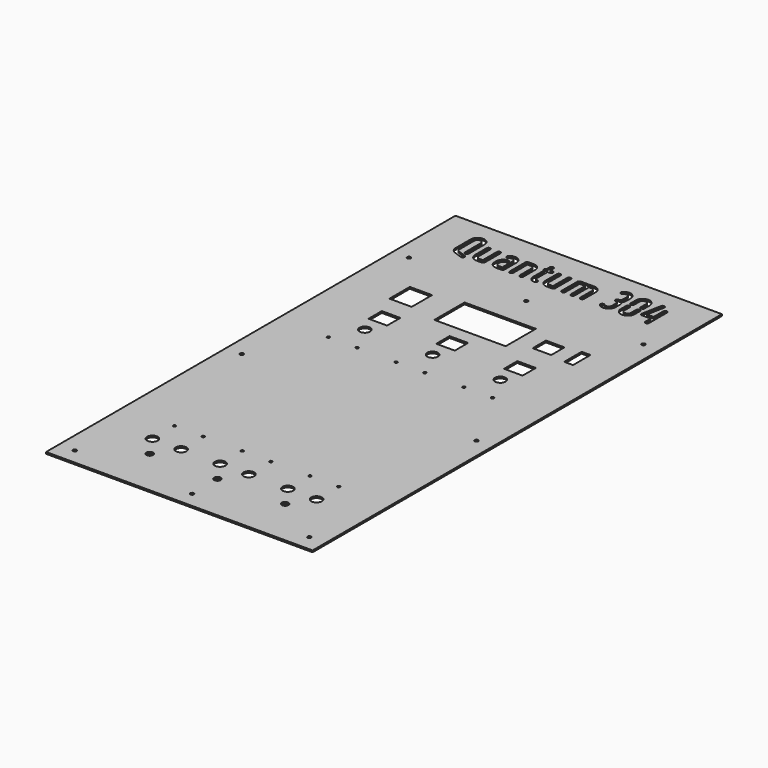
from build123d import *

# Parameters (mm, degrees)
F0_W     = 317.500001
F0_H     = 609.6
F0_R     = 2.1
F0_R_2   = 3.96875
F0_R_3   = 6.35
F0_R_4   = 1.625
F0_W_2   = 22.1
F0_H_2   = 19.8
F0_W_3   = 26.5
F0_H_3   = 30.35
F0_W_4   = 85
F0_H_4   = 45
F0_W_5   = 10.5
F0_H_5   = 26
F1_DEPTH = 2.032


with BuildPart() as f1:
    # F0 (on Top) → F1 (new body)
    with BuildSketch(Plane.XY):
        with Locations((116.335995, 80.489702)):
            Rectangle(F0_W, F0_H)
        with Locations((-23.364005, -205.260298)):
            Circle(F0_R, mode=Mode.SUBTRACT)
        with Locations((35.205998, -167.041455)):
            Circle(F0_R_2, mode=Mode.SUBTRACT)
        with Locations((18.105998, -141.641455)):
            Circle(F0_R_3, mode=Mode.SUBTRACT)
        with Locations((18.105998, -108.741455)):
            Circle(F0_R_4, mode=Mode.SUBTRACT)
        with Locations((116.335996, -205.260298)):
            Circle(F0_R, mode=Mode.SUBTRACT)
        with Locations((115.905998, -167.041455)):
            Circle(F0_R_2, mode=Mode.SUBTRACT)
        with Locations((52.305998, -141.641455)):
            Circle(F0_R_3, mode=Mode.SUBTRACT)
        with Locations((52.305998, -108.741455)):
            Circle(F0_R_4, mode=Mode.SUBTRACT)
        with Locations((98.805998, -141.641455)):
            Circle(F0_R_3, mode=Mode.SUBTRACT)
        with Locations((98.805998, -108.741455)):
            Circle(F0_R_4, mode=Mode.SUBTRACT)
        with Locations((-23.364005, 43.456502)):
            Circle(F0_R, mode=Mode.SUBTRACT)
        with Locations((133.005998, -141.641455)):
            Circle(F0_R_3, mode=Mode.SUBTRACT)
        with Locations((133.005998, -108.741455)):
            Circle(F0_R_4, mode=Mode.SUBTRACT)
        with Locations((179.505998, -141.641455)):
            Circle(F0_R_3, mode=Mode.SUBTRACT)
        with Locations((179.505998, -108.741455)):
            Circle(F0_R_4, mode=Mode.SUBTRACT)
        with Locations((196.605998, -167.041455)):
            Circle(F0_R_2, mode=Mode.SUBTRACT)
        with Locations((256.035996, -205.260298)):
            Circle(F0_R, mode=Mode.SUBTRACT)
        with Locations((213.705998, -141.641455)):
            Circle(F0_R_3, mode=Mode.SUBTRACT)
        with Locations((213.705998, -108.741455)):
            Circle(F0_R_4, mode=Mode.SUBTRACT)
        with Locations((256.035996, 43.456502)):
            Circle(F0_R, mode=Mode.SUBTRACT)
        with Locations((18.105998, 120.458545)):
            Circle(F0_R_4, mode=Mode.SUBTRACT)
        with Locations((35.205998, 153.358545)):
            Circle(F0_R_3, mode=Mode.SUBTRACT)
        with Locations((35.205998, 182.564359)):
            Rectangle(F0_W_2, F0_H_2, mode=Mode.SUBTRACT)
        with Locations((27.332, 231.577933)):
            Rectangle(F0_W_3, F0_H_3, mode=Mode.SUBTRACT)
        with Locations((52.305998, 120.458545)):
            Circle(F0_R_4, mode=Mode.SUBTRACT)
        with Locations((98.805998, 120.458545)):
            Circle(F0_R_4, mode=Mode.SUBTRACT)
        with Locations((115.905998, 153.358545)):
            Circle(F0_R_3, mode=Mode.SUBTRACT)
        with Locations((115.905998, 182.564359)):
            Rectangle(F0_W_2, F0_H_2, mode=Mode.SUBTRACT)
        with Locations((115.905998, 231.577933)):
            Rectangle(F0_W_4, F0_H_4, mode=Mode.SUBTRACT)
        with Locations((-23.364005, 292.177933)):
            Circle(F0_R, mode=Mode.SUBTRACT)
        Polygon((-1.569246, 356.794588), (-1.540823, 357.618466), (-1.427191, 358.442345), (-1.22832, 359.209407), (-0.972632, 359.976498), (-0.603312, 360.686744), (-0.20557, 361.368568), (0.305805, 362.021997), (0.873996, 362.647034), (1.499032, 363.215225), (2.152462, 363.7266), (2.834286, 364.124342), (3.544532, 364.493662), (4.311594, 364.749349), (5.078685, 364.948221), (5.902564, 365.061853), (6.754865, 365.090276), (7.578743, 365.061853), (8.402622, 364.948221), (9.169713, 364.749349), (9.936775, 364.493662), (10.647021, 364.124342), (11.328845, 363.7266), (11.982275, 363.215225), (12.607311, 362.647034), (13.175502, 362.021997), (13.686877, 361.368568), (14.084619, 360.686744), (14.453939, 359.976498), (14.709626, 359.209407), (14.908498, 358.442345), (15.022159, 357.618466), (15.050553, 356.794588), (15.050553, 334.634847), (15.050553, 334.379159), (15.050553, 334.123472), (15.022159, 333.867785), (14.993736, 333.612097), (14.965314, 333.384803), (14.93692, 333.129116), (14.908498, 332.901851), (14.851681, 332.646164), (14.823288, 332.504109), (14.766443, 332.333631), (14.709626, 332.191605), (14.65281, 332.04955), (14.5676, 331.935888), (14.482362, 331.793863), (14.368729, 331.680201), (14.255068, 331.538175), (14.084619, 331.39612), (13.885748, 331.254065), (13.715299, 331.140433), (13.516428, 331.055194), (13.317557, 330.969955), (13.118686, 330.913139), (12.891392, 330.884745), (12.664127, 330.884745), (12.436833, 330.884745), (12.237962, 330.913139), (12.010697, 330.969955), (11.811826, 331.055194), (11.641377, 331.140433), (11.442506, 331.254065), (11.272028, 331.367697), (11.10158, 331.538175), (10.959525, 331.708624), (10.81747, 331.879072), (10.703837, 332.04955), (10.618599, 332.248421), (10.533389, 332.447292), (10.504966, 332.646164), (10.476573, 332.873428), (10.44815, 333.100722), (10.44815, 333.157538), (10.44815, 333.214355), (10.44815, 333.271171), (10.44815, 333.327987), (10.476573, 333.384803), (10.476573, 333.470042), (10.476573, 333.526858), (10.476573, 333.583674), (10.504966, 333.725729), (10.533389, 333.839362), (10.561782, 333.981417), (10.590205, 334.095049), (10.590205, 334.237104), (10.618599, 334.350737), (10.618599, 334.492792), (10.618599, 334.634847), (10.618599, 356.794588), (10.590205, 357.163907), (10.561782, 357.56165), (10.44815, 357.93097), (10.334518, 358.271896), (10.16404, 358.612822), (9.993591, 358.925326), (9.737904, 359.237829), (9.482217, 359.52194), (9.198107, 359.777627), (8.885603, 360.033314), (8.573099, 360.203763), (8.232173, 360.374241), (7.891247, 360.487873), (7.521927, 360.601505), (7.124185, 360.629928), (6.754865, 360.658322), (6.357122, 360.629928), (5.95938, 360.601505), (5.59006, 360.487873), (5.249134, 360.374241), (4.908208, 360.203763), (4.595704, 360.033314), (4.2832, 359.777627), (3.99909, 359.52194), (3.743403, 359.237829), (3.487715, 358.925326), (3.317267, 358.612822), (3.146789, 358.271896), (3.033157, 357.93097), (2.919524, 357.56165), (2.891102, 357.163907), (2.862708, 356.794588), (2.862708, 334.634847), (2.891102, 334.237104), (2.919524, 333.867785), (3.004763, 333.526858), (3.118396, 333.185932), (3.288844, 332.873428), (3.459322, 332.589318), (3.686587, 332.305237), (3.942274, 332.04955), (4.197962, 331.822256), (4.482072, 331.594991), (4.766153, 331.39612), (5.078685, 331.225642), (5.362766, 331.083616), (5.703692, 330.941561), (6.016196, 330.827929), (6.357122, 330.714268), (14.851681, 327.759651), (15.078975, 327.674412), (15.277847, 327.56078), (15.448295, 327.447147), (15.618744, 327.305092), (15.789221, 327.163037), (15.931276, 326.992589), (16.044909, 326.822111), (16.158541, 326.62324), (16.215357, 326.481185), (16.24378, 326.367552), (16.300596, 326.25392), (16.32899, 326.111865), (16.357412, 325.998233), (16.357412, 325.8846), (16.385835, 325.770939), (16.385835, 325.657306), (16.385835, 325.572068), (16.385835, 325.486858), (16.357412, 325.401619), (16.357412, 325.31638), (16.32899, 325.23117), (16.32899, 325.145932), (16.300596, 325.032299), (16.272174, 324.94706), (16.186964, 324.748189), (16.073302, 324.549318), (15.95967, 324.350447), (15.846038, 324.179998), (15.67556, 324.037943), (15.505111, 323.895888), (15.334663, 323.753833), (15.135791, 323.640201), (15.022159, 323.611807), (14.880104, 323.554962), (14.766443, 323.526568), (14.65281, 323.498146), (14.510755, 323.469752), (14.397123, 323.441329), (14.28349, 323.441329), (14.169858, 323.441329), (14.084619, 323.441329), (13.970987, 323.441329), (13.885748, 323.441329), (13.800509, 323.469752), (13.715299, 323.469752), (13.630061, 323.498146), (13.544822, 323.526568), (13.431189, 323.554962), (4.538888, 326.594846), (3.970697, 326.793718), (3.459322, 327.020982), (2.947918, 327.27667), (2.493359, 327.532357), (2.038801, 327.816467), (1.612665, 328.100577), (1.243345, 328.413081), (0.873996, 328.753978), (0.305805, 329.379014), (-0.20557, 330.032444), (-0.603312, 330.714268), (-0.972632, 331.424514), (-1.22832, 332.191605), (-1.427191, 332.958667), (-1.540823, 333.782546), (-1.569246, 334.634847), align=None, mode=Mode.SUBTRACT)
        Polygon((21.300741, 333.526858), (21.187109, 334.322343), (21.130264, 335.174644), (21.130264, 352.362634), (21.158686, 352.561505), (21.187109, 352.78877), (21.243925, 352.987641), (21.300741, 353.186512), (21.38598, 353.385383), (21.499612, 353.584255), (21.641667, 353.754703), (21.783693, 353.925181), (21.954171, 354.067236), (22.12462, 354.209262), (22.323491, 354.322923), (22.522362, 354.408133), (22.721233, 354.464978), (22.920105, 354.521794), (23.147369, 354.550188), (23.346241, 354.578611), (23.573534, 354.550188), (23.800799, 354.521794), (23.99967, 354.464978), (24.198542, 354.408133), (24.397413, 354.322923), (24.596284, 354.209262), (24.766733, 354.067236), (24.93721, 353.925181), (25.079265, 353.754703), (25.221291, 353.584255), (25.334953, 353.385383), (25.420162, 353.186512), (25.477008, 352.987641), (25.533824, 352.78877), (25.562218, 352.561505), (25.562218, 352.362634), (25.562218, 335.174644), (25.59064, 334.776902), (25.647456, 334.407553), (25.732695, 334.038233), (25.846328, 333.697307), (26.016776, 333.35641), (26.215647, 333.043877), (26.442941, 332.731373), (26.698629, 332.41887), (27.011132, 332.163182), (27.323636, 331.935888), (27.636139, 331.737046), (27.977066, 331.566569), (28.317992, 331.452936), (28.687312, 331.367697), (29.056632, 331.310881), (29.454374, 331.282488), (33.346531, 331.282488), (33.346531, 352.362634), (33.346531, 352.561505), (33.374953, 352.78877), (33.431769, 352.987641), (33.488586, 353.186512), (33.573824, 353.385383), (33.687457, 353.584255), (33.829512, 353.754703), (33.971567, 353.925181), (34.142015, 354.067236), (34.312464, 354.209262), (34.511335, 354.322923), (34.710206, 354.408133), (34.909078, 354.464978), (35.107949, 354.521794), (35.335243, 354.550188), (35.562508, 354.578611), (35.761379, 354.550188), (35.988673, 354.521794), (36.187544, 354.464978), (36.386415, 354.408133), (36.585257, 354.322923), (36.784128, 354.209262), (36.954606, 354.067236), (37.125055, 353.925181), (37.26711, 353.754703), (37.409165, 353.584255), (37.522797, 353.385383), (37.608036, 353.186512), (37.664852, 352.987641), (37.721668, 352.78877), (37.750091, 352.561505), (37.778485, 352.362634), (37.778485, 329.066511), (37.750091, 328.867639), (37.721668, 328.640346), (37.664852, 328.441474), (37.608036, 328.242603), (37.522797, 328.043732), (37.409165, 327.844861), (37.26711, 327.674412), (37.125055, 327.503964), (36.954606, 327.361909), (36.784128, 327.219854), (36.585257, 327.106221), (36.386415, 327.020982), (36.187544, 326.964166), (35.988673, 326.90735), (35.761379, 326.878927), (35.562508, 326.850534), (29.454374, 326.850534), (28.602073, 326.90735), (27.806617, 327.020982), (27.011132, 327.219854), (26.272464, 327.475541), (25.562218, 327.816467), (24.851971, 328.242603), (24.198542, 328.725584), (23.573534, 329.293775), (23.005343, 329.918812), (22.522362, 330.572213), (22.096226, 331.282488), (21.7553, 331.992734), (21.499612, 332.731373), align=None, mode=Mode.SUBTRACT)
        with Locations((116.335996, 292.177933)):
            Circle(F0_R, mode=Mode.SUBTRACT)
        Polygon((44.426416, 337.419015), (44.454809, 338.271316), (44.568471, 339.066801), (44.767313, 339.862257), (45.023029, 340.600925), (45.392349, 341.311171), (45.790091, 342.021417), (46.301466, 342.674847), (46.869657, 343.299854), (47.409455, 343.811258), (48.006068, 344.237394), (48.602653, 344.635137), (49.227689, 344.976063), (49.881119, 345.23175), (50.562943, 345.459015), (51.273189, 345.60107), (51.983435, 345.714703), (52.267545, 345.686309), (52.523232, 345.657886), (52.750526, 345.60107), (52.977791, 345.544254), (53.205085, 345.430622), (53.403927, 345.31696), (53.574405, 345.203328), (53.744853, 345.032879), (53.886908, 344.862402), (54.028963, 344.691953), (54.142596, 344.493082), (54.227834, 344.322633), (54.313044, 344.123762), (54.369889, 343.924891), (54.398283, 343.697597), (54.398283, 343.498726), (54.398283, 343.271461), (54.369889, 343.044167), (54.313044, 342.845296), (54.227834, 342.646454), (54.142596, 342.447582), (54.028963, 342.277105), (53.915331, 342.106656), (53.773276, 341.936179), (53.602798, 341.794153), (53.460772, 341.680491), (53.290294, 341.566859), (53.119846, 341.48162), (52.949368, 341.39641), (52.77892, 341.339594), (52.608471, 341.311171), (52.4096, 341.282778), (52.068674, 341.225932), (51.727747, 341.169116), (51.415244, 341.083907), (51.10274, 340.941852), (50.81863, 340.799796), (50.534549, 340.600925), (50.250439, 340.402054), (49.994752, 340.146367), (49.739064, 339.862257), (49.483377, 339.549753), (49.312899, 339.237249), (49.142451, 338.896323), (49.028818, 338.555426), (48.915186, 338.186077), (48.886763, 337.816757), (48.85834, 337.419015), (48.85834, 335.174644), (48.886763, 334.776902), (48.915186, 334.407553), (49.028818, 334.038233), (49.142451, 333.697307), (49.312899, 333.35641), (49.483377, 333.043877), (49.739064, 332.731373), (49.994752, 332.41887), (50.278862, 332.163182), (50.591365, 331.935888), (50.903869, 331.737046), (51.244795, 331.566569), (51.585692, 331.452936), (51.955041, 331.367697), (52.352784, 331.310881), (52.750526, 331.282488), (56.61426, 331.282488), (56.61426, 346.794298), (56.585837, 347.163617), (56.529021, 347.56136), (56.443811, 347.93068), (56.301756, 348.271606), (56.159701, 348.612532), (55.96083, 348.925036), (55.733565, 349.237539), (55.477878, 349.521649), (55.165345, 349.777337), (54.881264, 350.033024), (54.540338, 350.203473), (54.227834, 350.373951), (53.858486, 350.487583), (53.489166, 350.601215), (53.119846, 350.629638), (52.722103, 350.658032), (52.324361, 350.629638), (51.926619, 350.572793), (51.557299, 350.487583), (51.216373, 350.373951), (50.875446, 350.203473), (50.534549, 350.004602), (50.222016, 349.777337), (49.909513, 349.493227), (49.767458, 349.351172), (49.597009, 349.209117), (49.398138, 349.095484), (49.227689, 349.010275), (49.028818, 348.925036), (48.801524, 348.86822), (48.602653, 348.839797), (48.346966, 348.839797), (48.148094, 348.839797), (47.92083, 348.86822), (47.721958, 348.925036), (47.523087, 348.981852), (47.324216, 349.095484), (47.125345, 349.209117), (46.954896, 349.322778), (46.784419, 349.493227), (46.642393, 349.635282), (46.500338, 349.834153), (46.386705, 350.004602), (46.301466, 350.203473), (46.24465, 350.402344), (46.187834, 350.601215), (46.159411, 350.828509), (46.130989, 351.055774), (46.159411, 351.254645), (46.187834, 351.48191), (46.24465, 351.680781), (46.301466, 351.879652), (46.386705, 352.078524), (46.500338, 352.249001), (46.642393, 352.41945), (46.784419, 352.589898), (47.409455, 353.186512), (48.091278, 353.697887), (48.773131, 354.124052), (49.51177, 354.493372), (50.278862, 354.777482), (51.045924, 354.94793), (51.869802, 355.089986), (52.722103, 355.118379), (53.545982, 355.089986), (54.369889, 354.976353), (55.136952, 354.777482), (55.904014, 354.521794), (56.61426, 354.152446), (57.296112, 353.754703), (57.949513, 353.243328), (58.57455, 352.675137), (59.142741, 352.05013), (59.654115, 351.3967), (60.080281, 350.714848), (60.421178, 349.976208), (60.676865, 349.237539), (60.875736, 348.442055), (60.989398, 347.618176), (61.046214, 346.794298), (61.046214, 329.066511), (61.046214, 328.867639), (61.017791, 328.640346), (60.960975, 328.441474), (60.875736, 328.242603), (60.790527, 328.043732), (60.676865, 327.844861), (60.534839, 327.674412), (60.392784, 327.503964), (60.222306, 327.361909), (60.051858, 327.219854), (59.881409, 327.106221), (59.682538, 327.020982), (59.483667, 326.964166), (59.284796, 326.90735), (59.057502, 326.878927), (58.830237, 326.850534), (52.750526, 326.850534), (51.898225, 326.90735), (51.074317, 327.020982), (50.307255, 327.219854), (49.540193, 327.475541), (48.829947, 327.816467), (48.148094, 328.242603), (47.494665, 328.725584), (46.869657, 329.293775), (46.301466, 329.918812), (45.790091, 330.572213), (45.392349, 331.282488), (45.023029, 331.992734), (44.767313, 332.731373), (44.568471, 333.526858), (44.454809, 334.322343), (44.426416, 335.174644), align=None, mode=Mode.SUBTRACT)
        Polygon((67.239557, 328.441474), (67.182741, 328.640346), (67.154348, 328.867639), (67.154348, 329.066511), (67.154348, 352.362634), (67.154348, 352.561505), (67.182741, 352.78877), (67.239557, 352.987641), (67.324796, 353.186512), (67.410035, 353.385383), (67.523667, 353.584255), (67.665722, 353.754703), (67.807777, 353.925181), (67.978226, 354.067236), (68.148675, 354.209262), (68.319152, 354.322923), (68.518023, 354.408133), (68.716895, 354.464978), (68.915766, 354.521794), (69.143031, 354.550188), (69.370325, 354.578611), (75.450035, 354.578611), (76.302336, 354.521794), (77.126215, 354.408133), (77.893277, 354.209262), (78.660369, 353.953574), (79.370615, 353.612677), (80.052438, 353.186512), (80.705868, 352.70356), (81.330875, 352.13534), (81.899095, 351.510333), (82.41047, 350.856903), (82.808212, 350.146657), (83.177532, 349.436411), (83.43322, 348.697742), (83.632091, 347.902286), (83.745723, 347.106801), (83.774146, 346.2545), (83.774146, 329.066511), (83.774146, 328.867639), (83.745723, 328.640346), (83.688907, 328.441474), (83.603668, 328.242603), (83.518458, 328.043732), (83.404797, 327.844861), (83.262771, 327.674412), (83.120716, 327.503964), (82.950238, 327.361909), (82.77979, 327.219854), (82.609341, 327.106221), (82.41047, 327.020982), (82.211599, 326.964166), (82.012728, 326.90735), (81.785434, 326.878927), (81.558169, 326.850534), (81.330875, 326.878927), (81.10361, 326.90735), (80.904739, 326.964166), (80.705868, 327.020982), (80.506997, 327.106221), (80.336548, 327.219854), (80.16607, 327.361909), (79.995622, 327.503964), (79.853567, 327.674412), (79.711512, 327.844861), (79.597879, 328.043732), (79.51264, 328.242603), (79.427431, 328.441474), (79.370615, 328.640346), (79.342192, 328.867639), (79.342192, 329.066511), (79.342192, 346.2545), (79.313769, 346.652243), (79.285376, 347.021562), (79.171743, 347.390882), (79.058082, 347.731808), (78.887633, 348.072735), (78.717185, 348.385238), (78.461497, 348.697742), (78.20581, 349.010275), (77.9217, 349.265962), (77.609196, 349.493227), (77.296693, 349.692098), (76.955766, 349.862547), (76.61484, 349.976208), (76.24552, 350.061418), (75.847778, 350.118234), (75.450035, 350.146657), (71.586272, 350.146657), (71.586272, 329.066511), (71.586272, 328.867639), (71.557879, 328.640346), (71.501063, 328.441474), (71.415824, 328.242603), (71.330585, 328.043732), (71.216953, 327.844861), (71.074898, 327.674412), (70.932872, 327.503964), (70.762394, 327.361909), (70.591945, 327.219854), (70.421468, 327.106221), (70.222596, 327.020982), (70.023754, 326.964166), (69.824883, 326.90735), (69.597589, 326.878927), (69.370325, 326.850534), (69.143031, 326.878927), (68.915766, 326.90735), (68.716895, 326.964166), (68.518023, 327.020982), (68.319152, 327.106221), (68.148675, 327.219854), (67.978226, 327.361909), (67.807777, 327.503964), (67.665722, 327.674412), (67.523667, 327.844861), (67.410035, 328.043732), (67.324796, 328.242603), align=None, mode=Mode.SUBTRACT)
        Polygon((89.399298, 351.709204), (89.342482, 351.908075), (89.314059, 352.13534), (89.314059, 352.362634), (89.314059, 352.561505), (89.342482, 352.78877), (89.399298, 352.987641), (89.456114, 353.186512), (89.569776, 353.385383), (89.683408, 353.584255), (89.797041, 353.754703), (89.967489, 353.925181), (90.081151, 354.038813), (90.194783, 354.124052), (90.308415, 354.209262), (90.45047, 354.294501), (90.564103, 354.351317), (90.706158, 354.408133), (90.848213, 354.464978), (90.990268, 354.521794), (90.990268, 358.982142), (90.990268, 359.181013), (91.018661, 359.408278), (91.075478, 359.607149), (91.160717, 359.80602), (91.245955, 360.004892), (91.359588, 360.203763), (91.501643, 360.374241), (91.643698, 360.544689), (91.814146, 360.686744), (92.013018, 360.828799), (92.183466, 360.942432), (92.382337, 361.027641), (92.581209, 361.084487), (92.78008, 361.141303), (92.978951, 361.169696), (93.206245, 361.198119), (93.43351, 361.169696), (93.660804, 361.141303), (93.859646, 361.084487), (94.058517, 361.027641), (94.257388, 360.942432), (94.427866, 360.828799), (94.598314, 360.686744), (94.768763, 360.544689), (94.910818, 360.374241), (95.052873, 360.203763), (95.166505, 360.004892), (95.251744, 359.80602), (95.336983, 359.607149), (95.393799, 359.408278), (95.422193, 359.181013), (95.422193, 358.982142), (95.422193, 354.578611), (98.20639, 354.578611), (98.405232, 354.550188), (98.632526, 354.521794), (98.831397, 354.464978), (99.030268, 354.408133), (99.22914, 354.322923), (99.428011, 354.209262), (99.598459, 354.067236), (99.768908, 353.925181), (99.910963, 353.754703), (100.053018, 353.584255), (100.16665, 353.385383), (100.251889, 353.186512), (100.308705, 352.987641), (100.365522, 352.78877), (100.393944, 352.561505), (100.422338, 352.362634), (100.393944, 352.13534), (100.365522, 351.908075), (100.308705, 351.709204), (100.251889, 351.510333), (100.16665, 351.311461), (100.053018, 351.11259), (99.910963, 350.942142), (99.768908, 350.771664), (99.598459, 350.629638), (99.428011, 350.487583), (99.22914, 350.373951), (99.030268, 350.288712), (98.831397, 350.231896), (98.632526, 350.175079), (98.405232, 350.146657), (98.20639, 350.146657), (95.422193, 350.146657), (95.422193, 334.066656), (95.422193, 333.782546), (95.479038, 333.498436), (95.535854, 333.242748), (95.621064, 332.987061), (95.734726, 332.759796), (95.876751, 332.532502), (96.047229, 332.305237), (96.217678, 332.106366), (96.444972, 331.907495), (96.643843, 331.737046), (96.871108, 331.623385), (97.126795, 331.509752), (97.382482, 331.39612), (97.63817, 331.339304), (97.893857, 331.310881), (98.20639, 331.282488), (98.433655, 331.282488), (98.632526, 331.254065), (98.859791, 331.197249), (99.058662, 331.140433), (99.257533, 331.026771), (99.428011, 330.913139), (99.626882, 330.799506), (99.797331, 330.629058), (99.939386, 330.45858), (100.081441, 330.288132), (100.195073, 330.08926), (100.280312, 329.918812), (100.337128, 329.719941), (100.393944, 329.521069), (100.422338, 329.293775), (100.422338, 329.066511), (100.422338, 328.867639), (100.405682, 328.734304), (100.393944, 328.640346), (100.337128, 328.441474), (100.280312, 328.242603), (100.195073, 328.043732), (100.081441, 327.844861), (99.939386, 327.674412), (99.797331, 327.503964), (99.626882, 327.361909), (99.428011, 327.219854), (99.257533, 327.106221), (99.058662, 327.020982), (98.859791, 326.964166), (98.632526, 326.90735), (98.433655, 326.878927), (98.20639, 326.850534), (97.467721, 326.90735), (96.757475, 326.992589), (96.075623, 327.163037), (95.450615, 327.390302), (94.825608, 327.702835), (94.228995, 328.043732), (93.660804, 328.498291), (93.121006, 328.981272), (92.609631, 329.521069), (92.183466, 330.08926), (91.814146, 330.685874), (91.530036, 331.310881), (91.274349, 331.964311), (91.132294, 332.646164), (91.018661, 333.327987), (90.990268, 334.066656), (90.990268, 350.175079), (90.848213, 350.231896), (90.706158, 350.288712), (90.564103, 350.345528), (90.45047, 350.402344), (90.308415, 350.487583), (90.194783, 350.572793), (90.081151, 350.686454), (89.967489, 350.800087), (89.797041, 350.970535), (89.683408, 351.141013), (89.569776, 351.339884), (89.456114, 351.510333), align=None, mode=Mode.SUBTRACT)
        Polygon((104.996347, 333.526858), (104.882715, 334.322343), (104.825898, 335.174644), (104.825898, 352.362634), (104.854292, 352.561505), (104.882715, 352.78877), (104.939531, 352.987641), (104.996347, 353.186512), (105.081586, 353.385383), (105.195218, 353.584255), (105.337273, 353.754703), (105.479328, 353.925181), (105.649777, 354.067236), (105.820225, 354.209262), (106.019097, 354.322923), (106.217968, 354.408133), (106.416839, 354.464978), (106.61571, 354.521794), (106.843004, 354.550188), (107.041846, 354.578611), (107.26914, 354.550188), (107.496405, 354.521794), (107.695276, 354.464978), (107.894147, 354.408133), (108.093019, 354.322923), (108.29189, 354.209262), (108.462367, 354.067236), (108.632816, 353.925181), (108.774871, 353.754703), (108.916926, 353.584255), (109.030558, 353.385383), (109.115797, 353.186512), (109.172613, 352.987641), (109.22943, 352.78877), (109.257823, 352.561505), (109.257823, 352.362634), (109.257823, 335.174644), (109.286246, 334.776902), (109.343062, 334.407553), (109.428301, 334.038233), (109.541933, 333.697307), (109.712382, 333.35641), (109.911253, 333.043877), (110.138547, 332.731373), (110.394234, 332.41887), (110.706738, 332.163182), (111.019242, 331.935888), (111.331745, 331.737046), (111.672671, 331.566569), (112.013598, 331.452936), (112.382918, 331.367697), (112.752266, 331.310881), (113.14998, 331.282488), (117.042136, 331.282488), (117.042136, 352.362634), (117.042136, 352.561505), (117.070559, 352.78877), (117.127375, 352.987641), (117.184191, 353.186512), (117.26943, 353.385383), (117.383063, 353.584255), (117.525118, 353.754703), (117.667173, 353.925181), (117.837621, 354.067236), (118.008099, 354.209262), (118.20697, 354.322923), (118.405812, 354.408133), (118.604683, 354.464978), (118.803555, 354.521794), (119.030849, 354.550188), (119.258113, 354.578611), (119.456985, 354.550188), (119.684278, 354.521794), (119.88315, 354.464978), (120.082021, 354.408133), (120.280892, 354.322923), (120.479763, 354.209262), (120.650212, 354.067236), (120.82066, 353.925181), (120.962715, 353.754703), (121.10477, 353.584255), (121.218403, 353.385383), (121.303642, 353.186512), (121.360458, 352.987641), (121.417274, 352.78877), (121.445697, 352.561505), (121.47409, 352.362634), (121.47409, 329.066511), (121.445697, 328.867639), (121.417274, 328.640346), (121.360458, 328.441474), (121.303642, 328.242603), (121.218403, 328.043732), (121.10477, 327.844861), (120.962715, 327.674412), (120.82066, 327.503964), (120.650212, 327.361909), (120.479763, 327.219854), (120.280892, 327.106221), (120.082021, 327.020982), (119.88315, 326.964166), (119.684278, 326.90735), (119.456985, 326.878927), (119.258113, 326.850534), (113.14998, 326.850534), (112.297708, 326.90735), (111.502223, 327.020982), (110.706738, 327.219854), (109.968069, 327.475541), (109.257823, 327.816467), (108.547577, 328.242603), (107.894147, 328.725584), (107.26914, 329.293775), (106.700949, 329.918812), (106.217968, 330.572213), (105.791832, 331.282488), (105.450906, 331.992734), (105.195218, 332.731373), align=None, mode=Mode.SUBTRACT)
        with Locations((133.005998, 120.458545)):
            Circle(F0_R_4, mode=Mode.SUBTRACT)
        with Locations((179.505998, 120.458545)):
            Circle(F0_R_4, mode=Mode.SUBTRACT)
        with Locations((191.52598, 231.571879)):
            Rectangle(F0_W_2, F0_H_2, mode=Mode.SUBTRACT)
        with Locations((213.705998, 120.458545)):
            Circle(F0_R_4, mode=Mode.SUBTRACT)
        with Locations((196.605998, 153.358545)):
            Circle(F0_R_3, mode=Mode.SUBTRACT)
        with Locations((196.605998, 182.564359)):
            Rectangle(F0_W_2, F0_H_2, mode=Mode.SUBTRACT)
        with Locations((225.785996, 231.577933)):
            Rectangle(F0_W_5, F0_H_5, mode=Mode.SUBTRACT)
        Polygon((129.31522, 328.441474), (129.258403, 328.640346), (129.23001, 328.867639), (129.23001, 329.066511), (129.23001, 352.362634), (129.23001, 352.561505), (129.258403, 352.78877), (129.31522, 352.987641), (129.400458, 353.186512), (129.485697, 353.385383), (129.59933, 353.584255), (129.741385, 353.754703), (129.88344, 353.925181), (130.053888, 354.067236), (130.224337, 354.209262), (130.394814, 354.322923), (130.593686, 354.408133), (130.792557, 354.464978), (130.991428, 354.521794), (131.218693, 354.550188), (131.445987, 354.578611), (147.525988, 354.578611), (148.349866, 354.521794), (149.173774, 354.408133), (149.940836, 354.209262), (150.707898, 353.953574), (151.418144, 353.612677), (152.099997, 353.186512), (152.753427, 352.70356), (153.378434, 352.13534), (153.946625, 351.510333), (154.458, 350.856903), (154.855742, 350.146657), (155.225062, 349.436411), (155.480778, 348.697742), (155.679621, 347.902286), (155.793282, 347.106801), (155.821676, 346.2545), (155.821676, 329.066511), (155.821676, 328.867639), (155.793282, 328.640346), (155.736466, 328.441474), (155.651227, 328.242603), (155.565988, 328.043732), (155.452356, 327.844861), (155.310301, 327.674412), (155.168246, 327.503964), (154.997797, 327.361909), (154.827349, 327.219854), (154.656871, 327.106221), (154.458, 327.020982), (154.259128, 326.964166), (154.060257, 326.90735), (153.832992, 326.878927), (153.605699, 326.850534), (153.378434, 326.878927), (153.15114, 326.90735), (152.952269, 326.964166), (152.753427, 327.020982), (152.554555, 327.106221), (152.384078, 327.219854), (152.213629, 327.361909), (152.043151, 327.503964), (151.901126, 327.674412), (151.75907, 327.844861), (151.645438, 328.043732), (151.560199, 328.242603), (151.47496, 328.441474), (151.418144, 328.640346), (151.389751, 328.867639), (151.389751, 329.066511), (151.389751, 346.2545), (151.361328, 346.652243), (151.332905, 347.021562), (151.219273, 347.390882), (151.105641, 347.731808), (150.935192, 348.072735), (150.764714, 348.385238), (150.509027, 348.697742), (150.25334, 349.010275), (149.969229, 349.265962), (149.656726, 349.493227), (149.344222, 349.692098), (149.003296, 349.862547), (148.662399, 349.976208), (148.29305, 350.061418), (147.895308, 350.118234), (147.525988, 350.146657), (144.74182, 350.146657), (144.74182, 329.066511), (144.74182, 328.867639), (144.713397, 328.640346), (144.656581, 328.441474), (144.571371, 328.242603), (144.486132, 328.043732), (144.3725, 327.844861), (144.230445, 327.674412), (144.08839, 327.503964), (143.917941, 327.361909), (143.747464, 327.219854), (143.577015, 327.106221), (143.378144, 327.020982), (143.179273, 326.964166), (142.980401, 326.90735), (142.753137, 326.878927), (142.525843, 326.850534), (142.298578, 326.878927), (142.071284, 326.90735), (141.872413, 326.964166), (141.673542, 327.020982), (141.47467, 327.106221), (141.304222, 327.219854), (141.133744, 327.361909), (140.963296, 327.503964), (140.821241, 327.674412), (140.679185, 327.844861), (140.565553, 328.043732), (140.480343, 328.242603), (140.395105, 328.441474), (140.338288, 328.640346), (140.309866, 328.867639), (140.309866, 329.066511), (140.309866, 350.146657), (133.661964, 350.146657), (133.661964, 329.066511), (133.661964, 328.867639), (133.633541, 328.640346), (133.576725, 328.441474), (133.491486, 328.242603), (133.406247, 328.043732), (133.292615, 327.844861), (133.15056, 327.674412), (133.008534, 327.503964), (132.838056, 327.361909), (132.667608, 327.219854), (132.49713, 327.106221), (132.298288, 327.020982), (132.099417, 326.964166), (131.900545, 326.90735), (131.673252, 326.878927), (131.445987, 326.850534), (131.218693, 326.878927), (130.991428, 326.90735), (130.792557, 326.964166), (130.593686, 327.020982), (130.394814, 327.106221), (130.224337, 327.219854), (130.053888, 327.361909), (129.88344, 327.503964), (129.741385, 327.674412), (129.59933, 327.844861), (129.485697, 328.043732), (129.400458, 328.242603), align=None, mode=Mode.SUBTRACT)
        Polygon((174.202892, 329.975628), (174.174499, 330.202893), (174.146076, 330.401764), (174.174499, 330.629058), (174.202892, 330.856323), (174.259709, 331.055194), (174.316525, 331.254065), (174.401764, 331.452936), (174.515396, 331.623385), (174.657451, 331.822256), (174.799506, 331.964311), (174.969955, 332.13476), (175.140432, 332.248421), (175.339304, 332.362054), (175.538175, 332.475686), (175.737046, 332.532502), (175.935917, 332.589318), (176.163182, 332.617741), (176.362053, 332.617741), (176.589318, 332.617741), (176.816612, 332.589318), (177.015483, 332.532502), (177.214354, 332.475686), (177.413225, 332.390447), (177.612097, 332.276815), (177.782545, 332.13476), (177.952994, 331.992734), (178.265527, 331.708624), (178.57803, 331.452936), (178.918956, 331.254065), (179.259854, 331.083616), (179.629202, 330.941561), (179.998522, 330.856323), (180.396265, 330.799506), (180.765585, 330.771084), (181.19175, 330.799506), (181.561069, 330.827929), (181.930389, 330.941561), (182.271315, 331.055194), (182.612242, 331.225642), (182.953139, 331.39612), (183.237249, 331.651808), (183.521359, 331.907495), (183.80544, 332.191605), (184.032734, 332.504109), (184.231605, 332.816612), (184.37366, 333.157538), (184.487292, 333.498436), (184.600925, 333.867785), (184.629348, 334.237104), (184.657741, 334.634847), (184.657741, 340.74298), (184.657741, 341.027061), (184.600925, 341.311171), (184.544109, 341.566859), (184.45887, 341.822546), (184.345237, 342.04984), (184.203182, 342.277105), (184.061127, 342.504399), (183.862256, 342.70327), (183.663414, 342.902141), (183.43612, 343.07259), (183.208855, 343.186222), (182.981562, 343.299854), (182.725874, 343.385093), (182.470187, 343.470332), (182.186077, 343.498726), (181.901996, 343.498726), (181.873573, 343.498726), (181.674702, 343.527148), (181.447437, 343.555571), (181.248566, 343.612387), (181.049695, 343.669203), (180.850823, 343.782836), (180.651952, 343.896468), (180.481504, 344.01013), (180.311026, 344.180578), (180.168971, 344.351027), (180.026945, 344.521504), (179.913283, 344.720376), (179.828074, 344.890824), (179.771228, 345.089695), (179.714412, 345.288567), (179.686019, 345.515831), (179.657596, 345.714703), (179.686019, 345.941997), (179.714412, 346.169261), (179.771228, 346.368133), (179.828074, 346.567004), (179.913283, 346.765875), (180.026945, 346.964746), (180.168971, 347.135195), (180.311026, 347.305672), (180.481504, 347.447727), (180.651952, 347.589753), (180.850823, 347.703415), (181.049695, 347.788625), (181.248566, 347.845441), (181.447437, 347.902286), (181.674702, 347.93068), (181.873573, 347.93068), (181.901996, 347.93068), (182.186077, 347.959102), (182.470187, 347.987496), (182.725874, 348.044312), (182.981562, 348.157974), (183.208855, 348.271606), (183.43612, 348.385238), (183.663414, 348.555716), (183.862256, 348.754558), (184.061127, 348.953429), (184.203182, 349.180723), (184.345237, 349.407988), (184.45887, 349.635282), (184.544109, 349.890969), (184.600925, 350.146657), (184.657741, 350.430767), (184.657741, 350.714848), (184.657741, 356.794588), (184.629348, 357.19233), (184.600925, 357.56165), (184.487292, 357.93097), (184.37366, 358.271896), (184.231605, 358.612822), (184.032734, 358.925326), (183.80544, 359.237829), (183.521359, 359.52194), (183.237249, 359.777627), (182.953139, 360.033314), (182.612242, 360.203763), (182.271315, 360.374241), (181.930389, 360.487873), (181.561069, 360.601505), (181.19175, 360.629928), (180.765585, 360.658322), (180.396265, 360.629928), (179.998522, 360.573083), (179.629202, 360.487873), (179.288276, 360.374241), (178.94735, 360.203763), (178.606424, 359.976498), (178.265527, 359.749204), (177.952994, 359.465123), (177.782545, 359.323068), (177.612097, 359.181013), (177.413225, 359.067381), (177.214354, 358.982142), (177.015483, 358.896903), (176.816612, 358.840087), (176.589318, 358.811693), (176.362053, 358.811693), (176.163182, 358.811693), (175.935917, 358.840087), (175.737046, 358.896903), (175.538175, 358.953719), (175.339304, 359.067381), (175.140432, 359.181013), (174.969955, 359.294646), (174.799506, 359.465123), (174.657451, 359.607149), (174.515396, 359.80602), (174.401764, 359.976498), (174.316525, 360.175369), (174.259709, 360.374241), (174.202892, 360.573083), (174.174499, 360.800377), (174.146076, 361.027641), (174.174499, 361.226513), (174.202892, 361.453806), (174.259709, 361.652678), (174.316525, 361.851549), (174.430186, 362.05042), (174.543819, 362.220869), (174.657451, 362.391317), (174.827929, 362.561795), (175.481359, 363.158409), (176.134759, 363.698177), (176.845034, 364.124342), (177.583674, 364.493662), (178.322343, 364.749349), (179.117828, 364.948221), (179.941706, 365.090276), (180.765585, 365.118669), (181.617886, 365.090276), (182.441764, 364.976643), (183.208855, 364.777772), (183.975918, 364.522085), (184.686164, 364.152736), (185.367987, 363.754993), (186.021417, 363.243618), (186.646453, 362.675427), (187.214644, 362.05042), (187.726019, 361.39699), (188.123762, 360.715138), (188.493081, 360.004892), (188.748769, 359.237829), (188.94764, 358.470767), (189.061272, 357.646889), (189.089695, 356.794588), (189.089695, 350.714848), (189.061272, 349.976208), (188.976063, 349.294356), (188.805585, 348.612532), (188.57832, 347.987496), (188.29421, 347.390882), (187.953284, 346.794298), (187.527148, 346.2545), (187.072589, 345.714703), (187.527148, 345.203328), (187.953284, 344.66353), (188.29421, 344.066946), (188.57832, 343.470332), (188.805585, 342.845296), (188.976063, 342.163472), (189.061272, 341.48162), (189.089695, 340.74298), (189.089695, 334.634847), (189.061272, 333.782546), (188.94764, 332.958667), (188.748769, 332.191605), (188.493081, 331.424514), (188.123762, 330.714268), (187.726019, 330.032444), (187.214644, 329.379014), (186.646453, 328.753978), (186.021417, 328.185787), (185.367987, 327.674412), (184.686164, 327.27667), (183.975918, 326.90735), (183.208855, 326.651662), (182.441764, 326.452791), (181.617886, 326.339159), (180.765585, 326.310736), (179.941706, 326.339159), (179.117828, 326.481185), (178.322343, 326.680056), (177.583674, 326.935743), (176.845034, 327.305092), (176.134759, 327.731228), (175.481359, 328.271026), (174.827929, 328.867639), (174.657451, 329.038088), (174.543819, 329.208537), (174.430186, 329.379014), (174.316525, 329.577886), (174.259709, 329.776757), align=None, mode=Mode.SUBTRACT)
        with Locations((256.035996, 292.177933)):
            Circle(F0_R, mode=Mode.SUBTRACT)
        Polygon((195.311461, 332.958667), (195.197829, 333.782546), (195.141012, 334.634847), (195.141012, 342.362344), (195.169406, 342.561215), (195.197829, 342.78848), (195.254645, 342.987351), (195.311461, 343.186222), (195.3967, 343.385093), (195.510332, 343.583965), (195.652387, 343.754413), (195.794442, 343.924891), (195.964891, 344.066946), (196.135339, 344.208972), (196.334211, 344.322633), (196.533082, 344.407843), (196.731953, 344.464688), (196.930824, 344.521504), (197.158118, 344.549898), (197.356989, 344.578321), (197.584254, 344.549898), (197.811548, 344.521504), (198.010419, 344.464688), (198.20929, 344.407843), (198.408133, 344.322633), (198.607004, 344.208972), (198.777481, 344.066946), (198.94793, 343.924891), (199.089985, 343.754413), (199.23204, 343.583965), (199.345673, 343.385093), (199.430911, 343.186222), (199.487728, 342.987351), (199.544544, 342.78848), (199.572966, 342.561215), (199.572966, 342.362344), (199.572966, 334.634847), (199.60136, 334.237104), (199.658176, 333.839362), (199.743415, 333.470042), (199.857047, 333.129116), (200.027525, 332.78819), (200.226367, 332.475686), (200.453661, 332.163182), (200.709348, 331.879072), (201.021852, 331.623385), (201.334356, 331.367697), (201.646888, 331.197249), (201.987786, 331.026771), (202.328712, 330.913139), (202.698032, 330.799506), (203.06738, 330.771084), (203.465123, 330.74269), (203.862836, 330.771084), (204.232185, 330.799506), (204.601505, 330.913139), (204.942431, 331.026771), (205.283357, 331.197249), (205.595861, 331.367697), (205.908365, 331.623385), (206.220868, 331.879072), (206.476556, 332.163182), (206.70385, 332.475686), (206.902721, 332.78819), (207.073169, 333.129116), (207.186802, 333.470042), (207.272041, 333.839362), (207.328857, 334.237104), (207.357279, 334.634847), (207.357279, 342.362344), (207.357279, 342.561215), (207.385673, 342.78848), (207.442489, 342.987351), (207.499305, 343.186222), (207.584544, 343.385093), (207.698177, 343.583965), (207.840232, 343.754413), (207.982287, 343.924891), (208.152735, 344.066946), (208.323213, 344.208972), (208.522084, 344.322633), (208.720955, 344.407843), (208.919827, 344.464688), (209.118698, 344.521504), (209.345963, 344.549898), (209.573256, 344.578321), (209.772099, 344.549898), (209.999392, 344.521504), (210.198264, 344.464688), (210.397135, 344.407843), (210.596006, 344.322633), (210.794877, 344.208972), (210.965326, 344.066946), (211.135774, 343.924891), (211.27783, 343.754413), (211.419885, 343.583965), (211.533517, 343.385093), (211.618756, 343.186222), (211.675572, 342.987351), (211.732388, 342.78848), (211.760811, 342.561215), (211.789204, 342.362344), (211.789204, 334.634847), (211.732388, 333.782546), (211.618756, 332.958667), (211.419885, 332.191605), (211.164197, 331.424514), (210.823271, 330.714268), (210.397135, 330.032444), (209.914154, 329.379014), (209.345963, 328.753978), (208.720955, 328.185787), (208.067525, 327.674412), (207.357279, 327.27667), (206.647033, 326.90735), (205.908365, 326.651662), (205.11288, 326.452791), (204.317395, 326.339159), (203.465123, 326.310736), (202.612822, 326.339159), (201.817337, 326.452791), (201.021852, 326.651662), (200.283212, 326.90735), (199.572966, 327.27667), (198.862691, 327.674412), (198.20929, 328.185787), (197.584254, 328.753978), (197.016063, 329.379014), (196.533082, 330.032444), (196.106946, 330.714268), (195.76602, 331.424514), (195.510332, 332.191605), align=None, mode=Mode.SUBTRACT)
        Polygon((216.306397, 338.384948), (216.249581, 338.583819), (216.221158, 338.811113), (216.221158, 339.038378), (216.221158, 339.123617), (216.221158, 339.208827), (216.221158, 339.294066), (216.221158, 339.379304), (216.249581, 339.464543), (216.277975, 339.521359), (216.277975, 339.606569), (216.306397, 339.663385), (220.653112, 362.334501), (220.681506, 362.561795), (220.738351, 362.78906), (220.795167, 362.987931), (220.880377, 363.186802), (220.965616, 363.385673), (221.079248, 363.556151), (221.19291, 363.7266), (221.334936, 363.897048), (221.505413, 364.039103), (221.675862, 364.181158), (221.84634, 364.294791), (222.016788, 364.38003), (222.215659, 364.436846), (222.414531, 364.493662), (222.641795, 364.522085), (222.869089, 364.522085), (223.067961, 364.522085), (223.295225, 364.493662), (223.494097, 364.436846), (223.692968, 364.38003), (223.891839, 364.294791), (224.09071, 364.181158), (224.261159, 364.039103), (224.431636, 363.897048), (224.573692, 363.7266), (224.715717, 363.556151), (224.829379, 363.35728), (224.914589, 363.158409), (224.971405, 362.959537), (225.02825, 362.760666), (225.056644, 362.533372), (225.085066, 362.306108), (225.056644, 362.249291), (225.056644, 362.164053), (225.056644, 362.078814), (225.056644, 361.993604), (225.056644, 361.908365), (225.02825, 361.823126), (225.02825, 361.76631), (225.02825, 361.681071), (221.107671, 341.254355), (228.9488, 341.254355), (228.9488, 355.658177), (228.9488, 355.857048), (228.977223, 356.084342), (229.034039, 356.283213), (229.119278, 356.482055), (229.204488, 356.680926), (229.31812, 356.879797), (229.460175, 357.050275), (229.60223, 357.220724), (229.772679, 357.362779), (229.943156, 357.504834), (230.113605, 357.618466), (230.312476, 357.703705), (230.511347, 357.760521), (230.710219, 357.817337), (230.937512, 357.845731), (231.164777, 357.874154), (231.392071, 357.845731), (231.619336, 357.817337), (231.818207, 357.760521), (232.017078, 357.703705), (232.21595, 357.618466), (232.386398, 357.504834), (232.556876, 357.362779), (232.727324, 357.220724), (232.869379, 357.050275), (233.011434, 356.879797), (233.125067, 356.680926), (233.210306, 356.482055), (233.295515, 356.283213), (233.352332, 356.084342), (233.380754, 355.857048), (233.380754, 355.658177), (233.380754, 329.066511), (233.380754, 328.839217), (233.352332, 328.611952), (233.295515, 328.413081), (233.210306, 328.21421), (233.125067, 328.015338), (233.011434, 327.816467), (232.869379, 327.646019), (232.727324, 327.475541), (232.556876, 327.333486), (232.386398, 327.191431), (232.21595, 327.077798), (232.017078, 326.992589), (231.818207, 326.935743), (231.619336, 326.878927), (231.392071, 326.850534), (231.164777, 326.850534), (230.937512, 326.850534), (230.710219, 326.878927), (230.511347, 326.935743), (230.312476, 326.992589), (230.113605, 327.077798), (229.943156, 327.191431), (229.772679, 327.333486), (229.60223, 327.475541), (229.460175, 327.646019), (229.31812, 327.816467), (229.204488, 328.015338), (229.119278, 328.21421), (229.034039, 328.413081), (228.977223, 328.611952), (228.9488, 328.839217), (228.9488, 329.066511), (228.9488, 336.822401), (218.437135, 336.822401), (218.209871, 336.822401), (217.982577, 336.850824), (217.783705, 336.90764), (217.584834, 336.964456), (217.385963, 337.078089), (217.187092, 337.19175), (217.016643, 337.305382), (216.846195, 337.475831), (216.70414, 337.646309), (216.562085, 337.816757), (216.448452, 338.015628), (216.363213, 338.186077), align=None, mode=Mode.SUBTRACT)
        Polygon((195.141012, 356.794588), (195.197829, 357.646889), (195.311461, 358.470767), (195.510332, 359.237829), (195.76602, 360.004892), (196.106946, 360.715138), (196.533082, 361.39699), (197.016063, 362.05042), (197.584254, 362.675427), (198.20929, 363.243618), (198.862691, 363.754993), (199.572966, 364.152736), (200.283212, 364.522085), (201.021852, 364.777772), (201.817337, 364.976643), (202.612822, 365.090276), (203.465123, 365.118669), (204.317395, 365.090276), (205.11288, 364.976643), (205.908365, 364.777772), (206.647033, 364.522085), (207.357279, 364.152736), (208.067525, 363.754993), (208.720955, 363.243618), (209.345963, 362.675427), (209.914154, 362.05042), (210.397135, 361.39699), (210.823271, 360.715138), (211.164197, 360.004892), (211.419885, 359.237829), (211.618756, 358.470767), (211.732388, 357.646889), (211.789204, 356.794588), (211.789204, 349.067091), (211.760811, 348.86822), (211.732388, 348.640926), (211.675572, 348.442055), (211.618756, 348.243183), (211.533517, 348.044312), (211.419885, 347.845441), (211.27783, 347.674992), (211.135774, 347.504544), (210.965326, 347.362489), (210.794877, 347.220434), (210.596006, 347.106801), (210.397135, 347.021562), (210.198264, 346.964746), (209.999392, 346.90793), (209.772099, 346.879507), (209.573256, 346.851114), (209.345963, 346.879507), (209.118698, 346.90793), (208.919827, 346.964746), (208.720955, 347.021562), (208.522084, 347.106801), (208.323213, 347.220434), (208.152735, 347.362489), (207.982287, 347.504544), (207.840232, 347.674992), (207.698177, 347.845441), (207.584544, 348.044312), (207.499305, 348.243183), (207.442489, 348.442055), (207.385673, 348.640926), (207.357279, 348.86822), (207.357279, 349.067091), (207.357279, 356.794588), (207.328857, 357.19233), (207.272041, 357.590043), (207.186802, 357.959392), (207.073169, 358.30029), (206.902721, 358.641216), (206.70385, 358.953719), (206.476556, 359.266252), (206.220868, 359.550333), (205.908365, 359.80602), (205.595861, 360.033314), (205.283357, 360.232186), (204.942431, 360.402634), (204.601505, 360.516267), (204.232185, 360.601505), (203.862836, 360.658322), (203.465123, 360.686744), (203.06738, 360.658322), (202.698032, 360.601505), (202.328712, 360.516267), (201.987786, 360.402634), (201.646888, 360.232186), (201.334356, 360.033314), (201.021852, 359.80602), (200.709348, 359.550333), (200.453661, 359.266252), (200.226367, 358.953719), (200.027525, 358.641216), (199.857047, 358.30029), (199.743415, 357.959392), (199.658176, 357.590043), (199.60136, 357.19233), (199.572966, 356.794588), (199.572966, 349.067091), (199.572966, 348.86822), (199.544544, 348.640926), (199.487728, 348.442055), (199.430911, 348.243183), (199.345673, 348.044312), (199.23204, 347.845441), (199.089985, 347.674992), (198.94793, 347.504544), (198.777481, 347.362489), (198.607004, 347.220434), (198.408133, 347.106801), (198.20929, 347.021562), (198.010419, 346.964746), (197.811548, 346.90793), (197.584254, 346.879507), (197.356989, 346.851114), (197.158118, 346.879507), (196.930824, 346.90793), (196.731953, 346.964746), (196.533082, 347.021562), (196.334211, 347.106801), (196.135339, 347.220434), (195.964891, 347.362489), (195.794442, 347.504544), (195.652387, 347.674992), (195.510332, 347.845441), (195.3967, 348.044312), (195.311461, 348.243183), (195.254645, 348.442055), (195.197829, 348.640926), (195.169406, 348.86822), (195.141012, 349.067091), align=None, mode=Mode.SUBTRACT)
    extrude(amount=F1_DEPTH)


solid = f1.part
